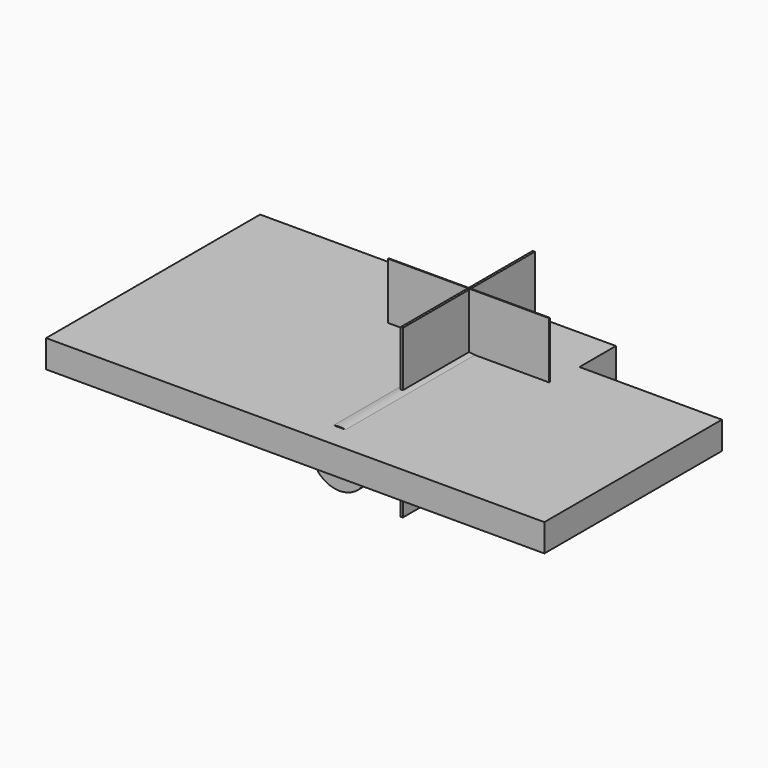
from build123d import *

# Parameters (mm, degrees)
F0_R      = 25.989755
F1_DEPTH  = 148.806557
F2_R      = 12.118644
F3_DEPTH  = 78.886919
F4_R      = 12.50989
F5_DEPTH  = 42.680472
F6_W      = 151.272334
F6_H      = 149.920389
F7_DEPTH  = 2.289401
F8_W      = 151.820213
F8_H      = 153.594725
F9_DEPTH  = 2.064951
F10_W     = 148.121752
F10_H     = 153.908267
F11_DEPTH = 0.826154
F12_W     = 327.465571
F12_H     = 41.953165
F13_DEPTH = 25.4


with BuildPart() as f1:
    # F0 (on Front) → F1 (new body)
    with BuildSketch(Plane.XZ):
        Circle(F0_R)
    extrude(amount=F1_DEPTH)

    # F2 (on face) → F3 (cut)
    with BuildSketch(Plane.XZ.offset(148.806557)):
        Circle(F2_R)
    extrude(amount=-F3_DEPTH, mode=Mode.SUBTRACT)

    # F4 (on face) → F5 (join)
    with BuildSketch(Plane.XZ.offset(69.919638)):
        with Locations((-6.009842, 0)):
            Circle(F4_R)
    extrude(amount=-F5_DEPTH)

    # F6 (on Top) → F7 (join)
    with BuildSketch(Plane.XY):
        with Locations((0.205088, -0.644424)):
            Rectangle(F6_W, F6_H)
    extrude(amount=-F7_DEPTH)

    # F8 (on Right) → F9 (join)
    with BuildSketch(Plane.YZ):
        with Locations((-0.092081, -0.352483)):
            Rectangle(F8_W, F8_H)
    extrude(amount=-F9_DEPTH)

    # F10 (on Front) → F11 (join)
    with BuildSketch(Plane.XZ):
        with Locations((-0.201192, 0.494554)):
            Rectangle(F10_W, F10_H)
    extrude(amount=-F11_DEPTH)

    # F12 (on face) → F13 (join)
    with BuildSketch(Plane.XY):
        with Locations((-87.891531, 53.339188)):
            Rectangle(F12_W, F12_H)
        Polygon((206.956223, 32.362606), (75.841255, 32.362606), (-251.624316, 32.362606), (-251.624316, -171.868116), (206.956223, -171.868116), align=None)
    extrude(amount=F13_DEPTH)


solid = f1.part
